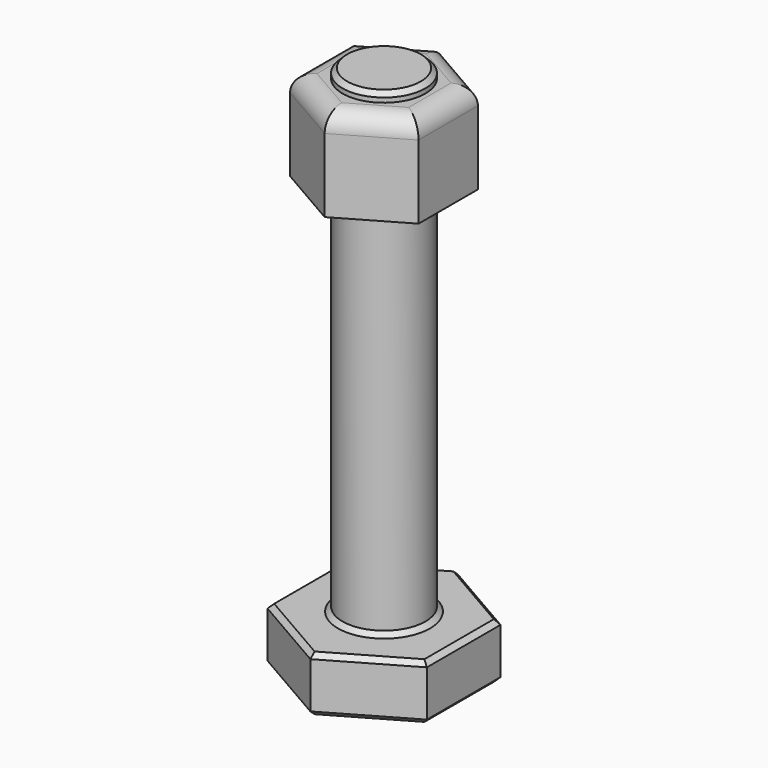
from build123d import *

# Parameters (mm, degrees)
PAD_DEPTH    = 3
SKETCH001_R  = 2.25
PAD001_DEPTH = 26
PAD002_START = -0.5
PAD002_DEPTH = 5
FILLET_R     = 1
CHAMFER_SIZE = 0.25


with BuildPart() as part:
    # Sketch → Pad (new body)
    with BuildSketch(Plane.XY):
        Polygon((0, 5), (-4.330127, 2.5), (-4.330127, -2.5), (0, -5), (4.330127, -2.5), (4.330127, 2.5), align=None)
    extrude(amount=PAD_DEPTH)

    # Sketch001 (on Face8 of Pad) → Pad001 (join)
    with BuildSketch(Plane.XY.offset(3)):
        Circle(SKETCH001_R)
    extrude(amount=PAD001_DEPTH)

    # Sketch002 (on Face10 of Pad001) → Pad002 (join)
    with BuildSketch(Plane.XY.offset(29).offset(PAD002_START)):
        Polygon((0, 4.03), (-3.490082, 2.015), (-3.490082, -2.015), (0, -4.03), (3.490082, -2.015), (3.490082, 2.015), align=None)
    extrude(amount=-PAD002_DEPTH)

    # Fillet
    fillet_edges = [part.edges().sort_by_distance(p)[0] for p in [
        (1.745041, -3.0225, 28.5),
        (3.490082, 0, 28.5),
        (1.745041, 3.0225, 28.5),
        (-1.745041, 3.0225, 28.5),
        (-3.490082, 0, 28.5),
        (-1.745041, -3.0225, 28.5),
    ]]
    fillet(fillet_edges, radius=FILLET_R)

    # Chamfer
    chamfer_edges = [part.edges().sort_by_distance(p)[0] for p in [
        (-2.165064, 3.75, 0),
        (-4.330127, 0, 0),
        (-2.165064, -3.75, 0),
        (2.165064, -3.75, 0),
        (4.330127, 0, 0),
        (2.165064, 3.75, 0),
        (-2.165064, 3.75, 3),
        (2.165064, 3.75, 3),
        (-4.330127, 0, 3),
        (4.330127, 0, 3),
        (-2.165064, -3.75, 3),
        (2.165064, -3.75, 3),
        (-2.25, 0, 3),
        (-2.25, 0, 29),
    ]]
    chamfer(chamfer_edges, length=CHAMFER_SIZE)


solid = part.part
